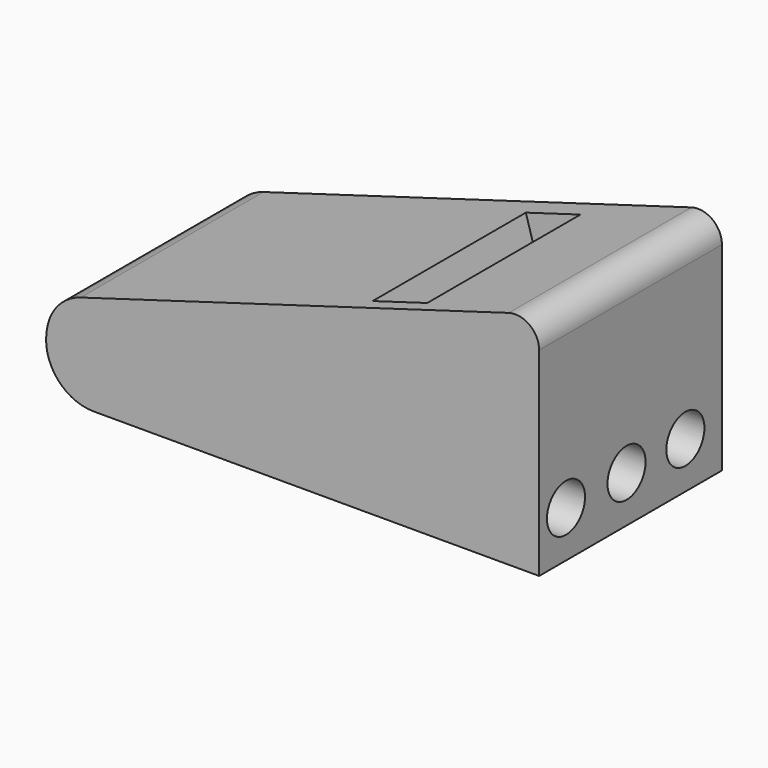
from build123d import *

# Parameters (mm, degrees)
F1_DEPTH = 60.96
F2_W     = 15.180191
F2_H     = 51.094524
F3_DEPTH = 12.7
F4_R     = 12.7
F5_R     = 6.35
F6_DEPTH = 50.8


with BuildPart() as f1:
    # F0 (on Front) → F1 (new body)
    with BuildSketch(Plane.XZ):
        with BuildLine():
            Line((-66.034004, 15.106326), (-68.026364, 0))
            Line((-68.026364, 0), (65.327539, 0))
            Line((65.327539, 0), (65.327539, 53.066271))
            ThreePointArc((65.327539, 53.066271), (62.7831, 58.149598), (57.18889, 59.159155))
            Line((57.18889, 59.159155), (-57.020338, 25.631483))
            ThreePointArc((-57.020338, 25.631483), (-63.089174, 21.706593), (-66.034004, 15.106326))
        make_face()
    extrude(amount=F1_DEPTH)

    # F2 (on face) → F3 (cut)
    with BuildSketch(Plane(origin=(-11.451568, 0, 39.008815), x_dir=(0.959509, 0, 0.281677), z_dir=(-0.281677, 0, 0.959509))):
        with Locations((38.148094, -31.626057)):
            Rectangle(F2_W, F2_H)
    extrude(amount=-F3_DEPTH, mode=Mode.SUBTRACT)

    # F4
    f4_edges = [f1.edges().sort_by_distance(p)[0] for p in [
        (-68.026364, -30.48, 0),
    ]]
    fillet(f4_edges, radius=F4_R)

    # F5 (on face) → F6 (cut)
    with BuildSketch(Plane.YZ.offset(65.327539)):
        with Locations((-52.006502, 12.382501)):
            Circle(F5_R)
        with Locations((-31.813502, 12.382501)):
            Circle(F5_R)
        with Locations((-12.192, 12.382501)):
            Circle(F5_R)
    extrude(amount=-F6_DEPTH, mode=Mode.SUBTRACT)


solid = f1.part
